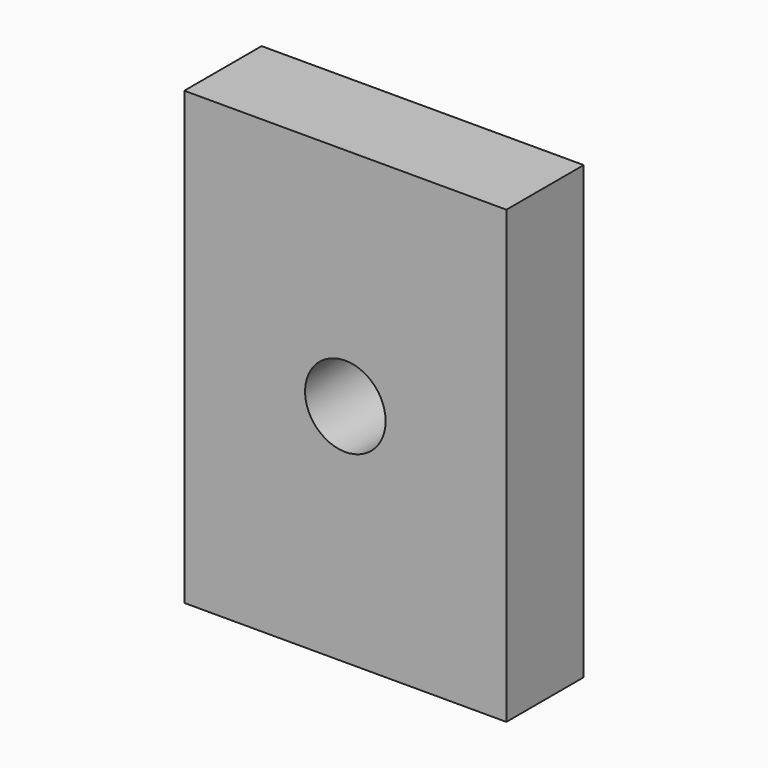
from build123d import *

# Parameters (mm, degrees)
F2_DEPTH = 19.05


with BuildPart() as f2:
    # F1 (on face) → F2 (new body)
    with BuildSketch(Plane.XZ):
        Polygon((-31.75, 44.45), (-31.75, 0), (-31.75, -44.45), (0, -44.45), (31.75, -44.45), (31.75, 0), (31.75, 44.45), (0, 44.45), align=None)
        with BuildLine():
            ThreePointArc((-7.9375, 0), (0, 7.9375), (7.9375, 0))
            ThreePointArc((7.9375, 0), (0, -7.9375), (-7.9375, 0))
        make_face(mode=Mode.SUBTRACT)
    extrude(amount=F2_DEPTH)


solid = f2.part
